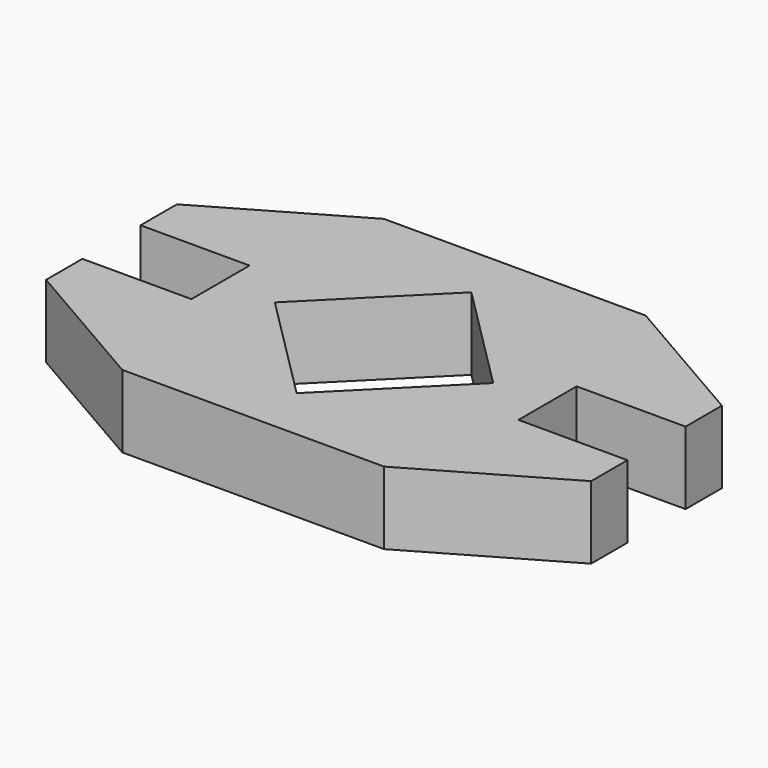
from build123d import *

# Parameters (mm, degrees)
F1_DEPTH = 25.4


with BuildPart() as f1:
    # F0 (on Top) → F1 (new body)
    with BuildSketch(Plane.XY):
        Polygon((0, 16.676498), (0, 29.376498), (0, 42.076498), (38.1, 42.076498), (38.1, 57.951498), (-11.393352, 86.526498), (-102.906648, 86.526498), (-152.4, 57.951498), (-152.4, 42.076498), (-114.3, 42.076498), (-114.3, 29.376498), (-114.3, 16.676498), (-152.4, 16.676498), (-152.4, 0.801498), (-102.906648, -27.773502), (-11.393352, -27.773502), (38.1, 0.801498), (38.1, 16.676498), align=None)
        Polygon((-57.15, -8.78959), (-95.316089, 29.376498), (-57.15, 67.542587), (-18.983911, 29.376498), align=None, mode=Mode.SUBTRACT)
    extrude(amount=F1_DEPTH)


solid = f1.part
